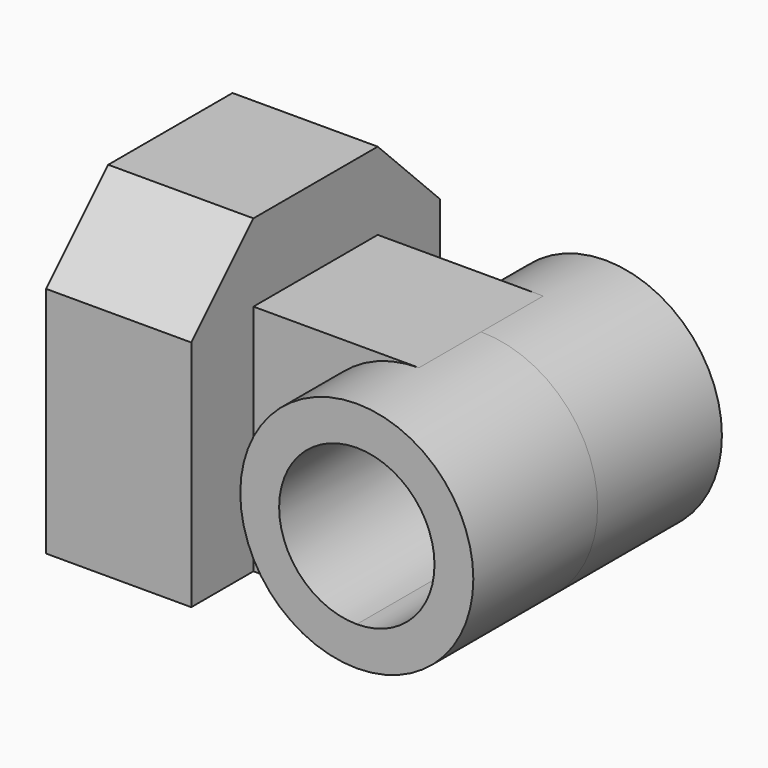
from build123d import *

# Parameters (mm, degrees)
F0_W          = 11.8681662488
F0_H          = 19.05
F1_DEPTH      = 12.7
F1_DEPTH_BACK = 12.7
F2_DEPTH      = 6.35
F2_DEPTH_BACK = 6.35
F3_DEPTH      = 12.7
F3_DEPTH_BACK = 12.7
F0_H_2        = 6.35
F4_DEPTH      = 12.7
F4_DEPTH_BACK = 12.7
F6_DEPTH      = 12.7


with BuildPart() as f1:
    # F0 (on Front) → F1 (new body, two sides)
    with BuildSketch(Plane.XZ) as f1_sk:
        with Locations((-36.0392803956, -20.5900701019)):
            Rectangle(F0_W, F0_H)
    extrude(amount=F1_DEPTH)
    extrude(f1_sk.sketch, amount=-F1_DEPTH_BACK)

    # F0 (on Front) → F2 (join, two sides)
    with BuildSketch(Plane.XZ) as f2_sk:
        with BuildLine():
            Line((-30.1051972712, -11.0650701019), (-30.1051972712, -30.1150701019))
            Line((-30.1051972712, -30.1150701019), (-16.57336352, -30.1150701019))
            ThreePointArc((-16.57336352, -30.1150701019), (-26.09836352, -20.5900701019), (-16.57336352, -11.0650701019))
            Line((-16.57336352, -11.0650701019), (-30.1051972712, -11.0650701019))
        make_face()
    extrude(amount=F2_DEPTH)
    extrude(f2_sk.sketch, amount=-F2_DEPTH_BACK)

    # F0 (on Front) → F3 (join, two sides)
    with BuildSketch(Plane.XZ) as f3_sk:
        with BuildLine():
            Line((-16.57336352, -26.9400701019), (-16.57336352, -30.1150701019))
            ThreePointArc((-16.57336352, -30.1150701019), (-9.8381714292, -27.3252621927), (-7.04836352, -20.5900701019))
            ThreePointArc((-7.04836352, -20.5900701019), (-9.8381714292, -13.8548780111), (-16.57336352, -11.0650701019))
            Line((-16.57336352, -11.0650701019), (-16.57336352, -14.2400701019))
            ThreePointArc((-16.57336352, -14.2400701019), (-12.0832354595, -16.0999420414), (-10.22336352, -20.5900701019))
            ThreePointArc((-10.22336352, -20.5900701019), (-12.0832354595, -25.0801981625), (-16.57336352, -26.9400701019))
        make_face()
        with BuildLine():
            ThreePointArc((-16.57336352, -11.0650701019), (-26.09836352, -20.5900701019), (-16.57336352, -30.1150701019))
            Line((-16.57336352, -30.1150701019), (-16.57336352, -26.9400701019))
            ThreePointArc((-16.57336352, -26.9400701019), (-22.92336352, -20.5900701019), (-16.57336352, -14.2400701019))
            Line((-16.57336352, -14.2400701019), (-16.57336352, -11.0650701019))
        make_face()
    extrude(amount=F3_DEPTH)
    extrude(f3_sk.sketch, amount=-F3_DEPTH_BACK)

    # F0 (on Front) → F4 (join, two sides)
    with BuildSketch(Plane.XZ) as f4_sk:
        with Locations((-36.0392803956, -7.8900701019)):
            Rectangle(F0_W, F0_H_2)
    extrude(amount=F4_DEPTH)
    extrude(f4_sk.sketch, amount=-F4_DEPTH_BACK)

    # F5 (on face) → F6 (cut)
    with BuildSketch(Plane.YZ.offset(-30.1051972712)):
        Polygon((12.7, -4.7150701019), (6.35, -4.7150701019), (12.7, -11.0650701019), align=None)
        Polygon((-12.7, -11.0650701019), (-6.35, -4.7150701019), (-12.7, -4.7150701019), align=None)
    extrude(amount=-F6_DEPTH, mode=Mode.SUBTRACT)


solid = f1.part
